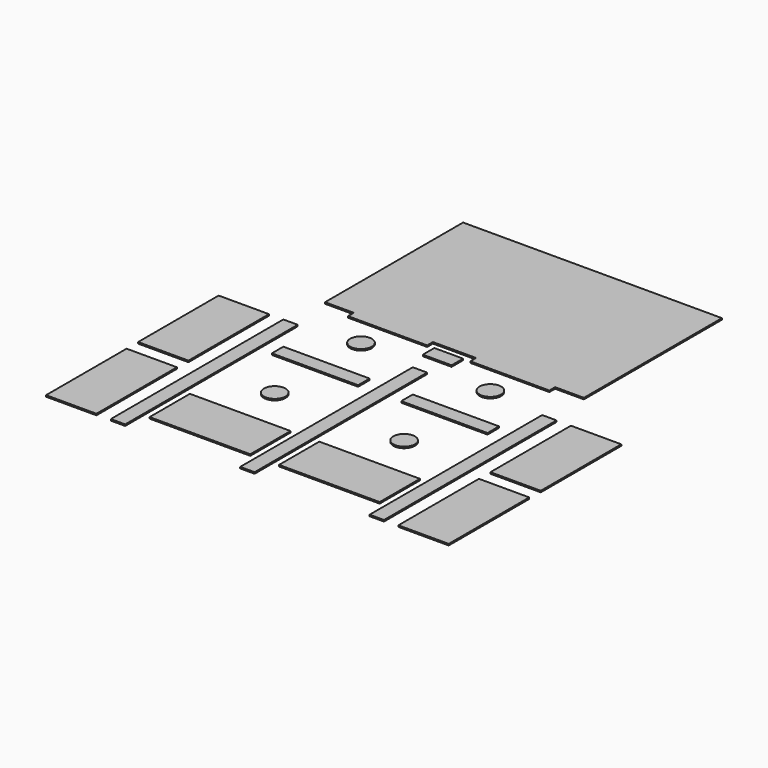
from build123d import *

# Parameters (mm, degrees)
F0_W      = 5486.4
F0_H      = 3657.6
F1_DEPTH  = 30.48
F3_DEPTH  = 30.48
F4_W      = 1066.8
F4_H      = 2133.6
F5_DEPTH  = 30.48
F7_DEPTH  = 30.48
F8_W      = 1676.4
F8_H      = 152.4
F9_DEPTH  = 30.48
F11_DEPTH = 30.48
F12_W     = 2133.6
F12_H     = 1066.8
F13_DEPTH = 30.48
F14_R     = 228.6
F15_DEPTH = 30.48


with BuildPart() as f1:
    # F0 (on Top) → F1 (new body)
    with BuildSketch(Plane.XY):
        Rectangle(F0_W, F0_H)
    extrude(amount=F1_DEPTH)

    # F8 (on Top) → F9 (join)
    with BuildSketch(Plane.XY):
        with Locations((1295.4, -1905)):
            Rectangle(F8_W, F8_H)
        with Locations((-1295.4, -1905)):
            Rectangle(F8_W, F8_H)
    extrude(amount=F9_DEPTH)


with BuildPart() as f3:
    # F2 (on Top) → F3 (new body)
    with BuildSketch(Plane.XY):
        Polygon((152.4, -2743.2), (0, -2743.2), (-152.4, -2743.2), (-152.4, -7315.2), (152.4, -7315.2), align=None)
        Polygon((2895.6, -2743.2), (2743.2, -2743.2), (2590.8, -2743.2), (2590.8, -7315.2), (2895.6, -7315.2), align=None)
        Polygon((-2590.8, -2743.2), (-2743.2, -2743.2), (-2895.6, -2743.2), (-2895.6, -7315.2), (-2590.8, -7315.2), align=None)
    extrude(amount=F3_DEPTH)


with BuildPart() as f5:
    # F4 (on Top) → F5 (new body)
    with BuildSketch(Plane.XY):
        with Locations((-3733.8, -6248.4)):
            Rectangle(F4_W, F4_H)
        with Locations((-3733.8, -3810)):
            Rectangle(F4_W, F4_H)
        with Locations((3733.8, -3810)):
            Rectangle(F4_W, F4_H)
        with Locations((3733.8, -6248.4)):
            Rectangle(F4_W, F4_H)
    extrude(amount=F5_DEPTH)


with BuildPart() as f7:
    # F6 (on Top) → F7 (new body)
    with BuildSketch(Plane.XY):
        Polygon((304.8, -1981.2), (0, -1981.2), (-304.8, -1981.2), (-304.8, -2286), (304.8, -2286), align=None)
    extrude(amount=F7_DEPTH)


with BuildPart() as f11:
    # F10 (on Top) → F11 (new body)
    with BuildSketch(Plane.XY):
        Polygon((457.2, -3505.2), (457.2, -3657.6), (457.2, -3810), (2286, -3810), (2286, -3505.2), align=None)
        Polygon((-457.2, -3810), (-457.2, -3657.6), (-457.2, -3505.2), (-2286, -3505.2), (-2286, -3810), align=None)
    extrude(amount=F11_DEPTH)


with BuildPart() as f13:
    # F12 (on Top) → F13 (new body)
    with BuildSketch(Plane.XY):
        with Locations((-1371.6, -6324.6)):
            Rectangle(F12_W, F12_H)
        with Locations((1371.6, -6324.6)):
            Rectangle(F12_W, F12_H)
    extrude(amount=F13_DEPTH)


with BuildPart() as f15:
    # F14 (on Top) → F15 (new body)
    with BuildSketch(Plane.XY):
        with Locations((-1371.6, -2590.8)):
            Circle(F14_R)
        with Locations((1371.6, -2590.8)):
            Circle(F14_R)
        with Locations((1371.6, -4876.8)):
            Circle(F14_R)
        with Locations((-1371.6, -4876.8)):
            Circle(F14_R)
    extrude(amount=F15_DEPTH)


solid = Compound([f1.part, f3.part, f5.part, f7.part, f11.part, f13.part, f15.part])
